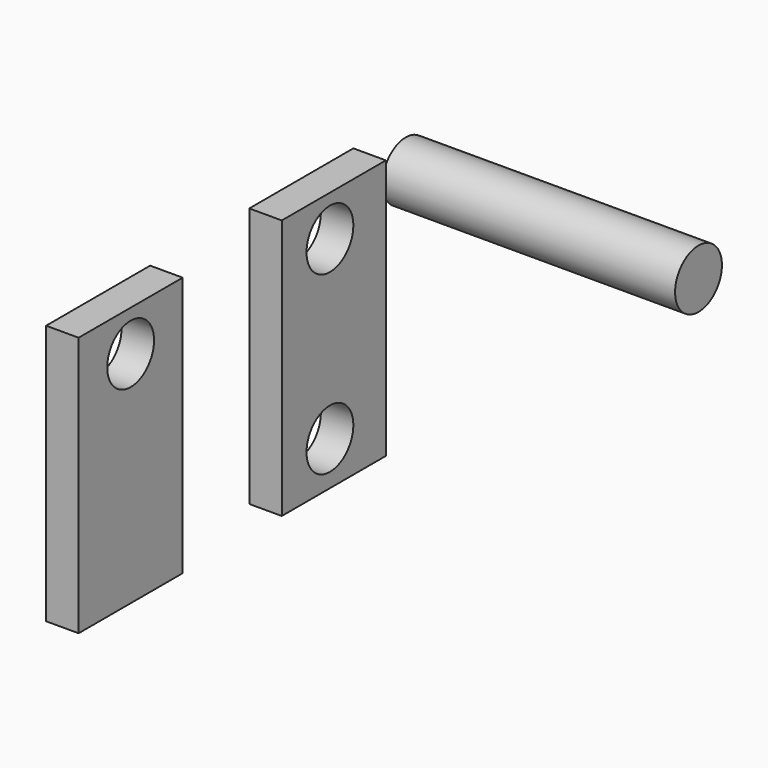
from build123d import *

# Parameters (mm, degrees)
F0_W     = 20
F0_H     = 40
F1_DEPTH = 5
F2_R     = 4.5
F3_DEPTH = 30
F4_R     = 4.5
F5_DEPTH = 30
F6_R     = 4.5
F7_DEPTH = 45


with BuildPart() as f1:
    # F0 (on Right) → F1 (new body)
    with BuildSketch(Plane.YZ):
        with Locations((-20.789474, 20)):
            Rectangle(F0_W, F0_H)
        with Locations((18.253966, 20)):
            Rectangle(F0_W, F0_H)
    extrude(amount=F1_DEPTH)

    # F2 (on face) → F3 (cut)
    with BuildSketch(Plane.YZ.offset(5)):
        with Locations((-20.789474, 33.750001)):
            Circle(F2_R)
    extrude(amount=-F3_DEPTH, mode=Mode.SUBTRACT)

    # F4 (on face) → F5 (cut)
    with BuildSketch(Plane.YZ.offset(5)):
        with Locations((17.504556, 33.750001)):
            Circle(F4_R)
        with Locations((17.504556, 6.70864)):
            Circle(F4_R)
    extrude(amount=-F5_DEPTH, mode=Mode.SUBTRACT)


with BuildPart() as f7:
    # F6 (on Right) → F7 (new body)
    with BuildSketch(Plane.YZ):
        with Locations((38.328152, 32.896992)):
            Circle(F6_R)
    extrude(amount=F7_DEPTH)


solid = Compound([f1.part, f7.part])
